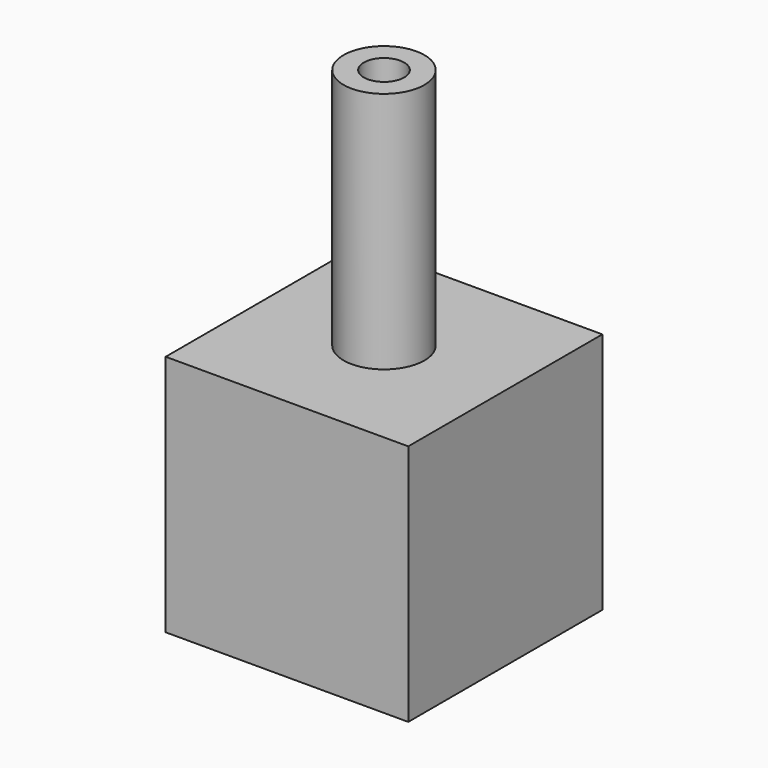
from build123d import *

# Parameters (mm, degrees)
F0_W     = 30
F0_H     = 30
F1_DEPTH = 30
F2_R     = 5
F3_DEPTH = 30
F4_R     = 2.5
F5_DEPTH = 60.001


with BuildPart() as f1:
    # F0 (on Top) → F1 (new body)
    with BuildSketch(Plane.XY):
        Rectangle(F0_W, F0_H)
    extrude(amount=F1_DEPTH)

    # F2 (on face) → F3 (join)
    with BuildSketch(Plane.XY.offset(30)):
        Circle(F2_R)
    extrude(amount=F3_DEPTH)

    # F4 (on face) → F5 (cut, through all)
    with BuildSketch(Plane.XY.offset(60)):
        Circle(F4_R)
    extrude(amount=-F5_DEPTH, mode=Mode.SUBTRACT)


solid = f1.part
